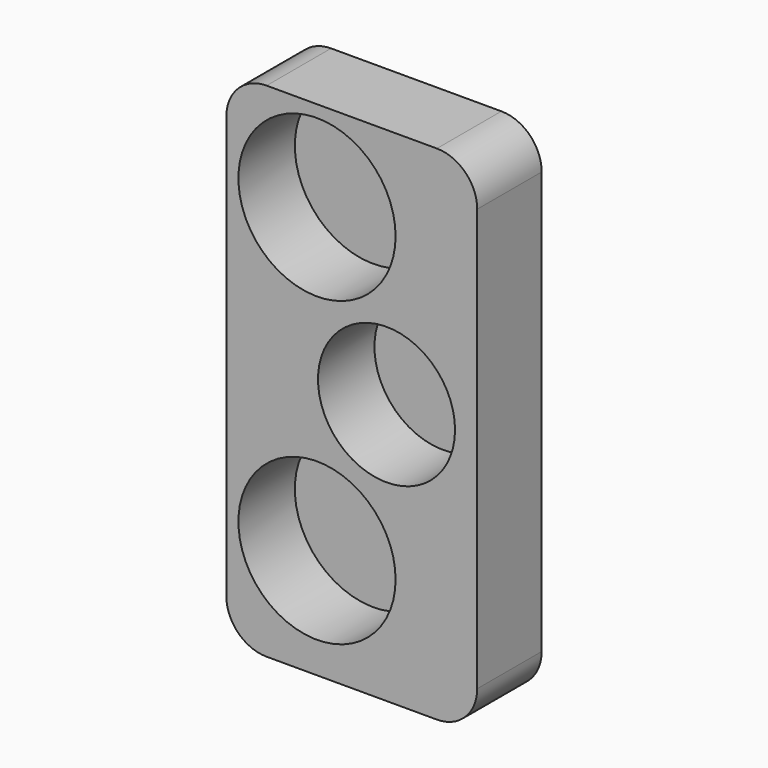
from build123d import *

# Parameters (mm, degrees)
F1_DEPTH = 8
F2_R     = 7.8
F2_R_2   = 6.8
F3_DEPTH = 7


with BuildPart() as f1:
    # F0 (on Front) → F1 (new body)
    with BuildSketch(Plane.XZ):
        with BuildLine():
            Line((20.9, 0), (4, 0))
            ThreePointArc((4, 0), (1.171573, -1.171573), (0, -4))
            Line((0, -4), (0, -45.9))
            ThreePointArc((0, -45.9), (1.171573, -48.728427), (4, -49.9))
            Line((4, -49.9), (20.9, -49.9))
            ThreePointArc((20.9, -49.9), (23.728427, -48.728427), (24.9, -45.9))
            Line((24.9, -45.9), (24.9, -4))
            ThreePointArc((24.9, -4), (23.728427, -1.171573), (20.9, 0))
        make_face()
    extrude(amount=F1_DEPTH)

    # F2 (on face) → F3 (cut)
    with BuildSketch(Plane.XZ.offset(8)):
        with Locations((9, -9)):
            Circle(F2_R)
        with Locations((15.9, -24)):
            Circle(F2_R_2)
        with Locations((9, -39)):
            Circle(F2_R)
    extrude(amount=-F3_DEPTH, mode=Mode.SUBTRACT)


solid = f1.part
